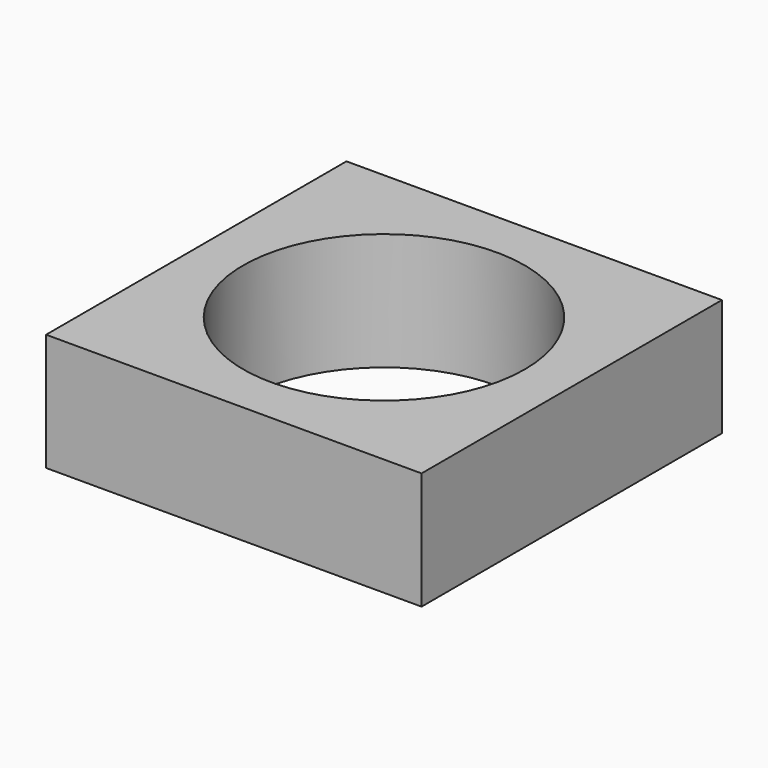
from build123d import *

# Parameters (mm, degrees)
SKETCH_W     = 80
SKETCH_H     = 80
PAD_DEPTH    = 25
SKETCH001_R  = 30
POCKET_DEPTH = 50


with BuildPart() as part:
    # Sketch → Pad (new body)
    with BuildSketch(Plane.XY):
        Rectangle(SKETCH_W, SKETCH_H)
    extrude(amount=PAD_DEPTH)

    # Sketch001 (on Face6 of Pad) → Pocket (cut)
    with BuildSketch(Plane.XY.offset(25)):
        Circle(SKETCH001_R)
    extrude(amount=-POCKET_DEPTH, mode=Mode.SUBTRACT)


solid = part.part
